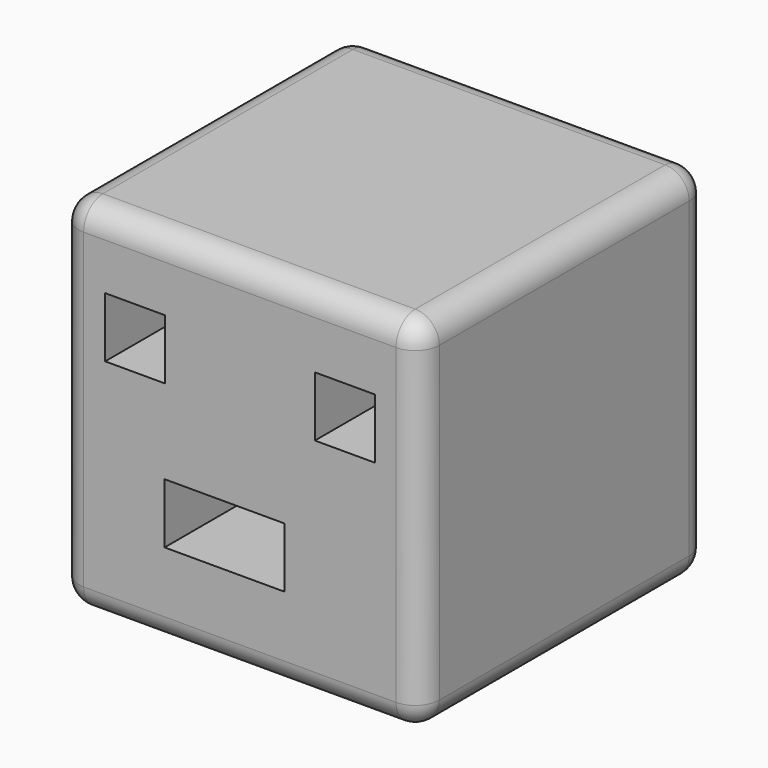
from build123d import *

# Parameters (mm, degrees)
F0_W     = 76.2
F0_H     = 76.2
F1_DEPTH = 76.2
F3_R     = 5.08
F2_W     = 12.7
F2_H     = 12.7
F2_W_2   = 25.4
F4_DEPTH = 50.8


with BuildPart() as f1:
    # F0 (on Front) → F1 (new body)
    with BuildSketch(Plane.XZ):
        with Locations((-38.1, 38.1)):
            Rectangle(F0_W, F0_H)
    extrude(amount=F1_DEPTH)

    # F3
    f3_edges = [f1.edges().sort_by_distance(p)[0] for p in [
        (-38.1, -76.2, 0),
        (0, -76.2, 38.1),
        (-38.1, -76.2, 76.2),
        (-76.2, -76.2, 38.1),
        (0, -38.1, 0),
        (0, -38.1, 76.2),
        (0, 0, 38.1),
        (-76.2, -38.1, 76.2),
        (-76.2, -38.1, 0),
        (-76.2, 0, 38.1),
        (-38.1, 0, 0),
        (-38.1, 0, 76.2),
    ]]
    fillet(f3_edges, radius=F3_R)

    # F2 (on face) → F4 (cut)
    with BuildSketch(Plane.XZ.offset(76.2)):
        with Locations((-60.229752, 54.895747)):
            Rectangle(F2_W, F2_H)
        with Locations((-15.875, 54.578253)):
            Rectangle(F2_W, F2_H)
        with Locations((-41.306752, 24.352249)):
            Rectangle(F2_W_2, F2_H)
    extrude(amount=-F4_DEPTH, mode=Mode.SUBTRACT)


solid = f1.part
